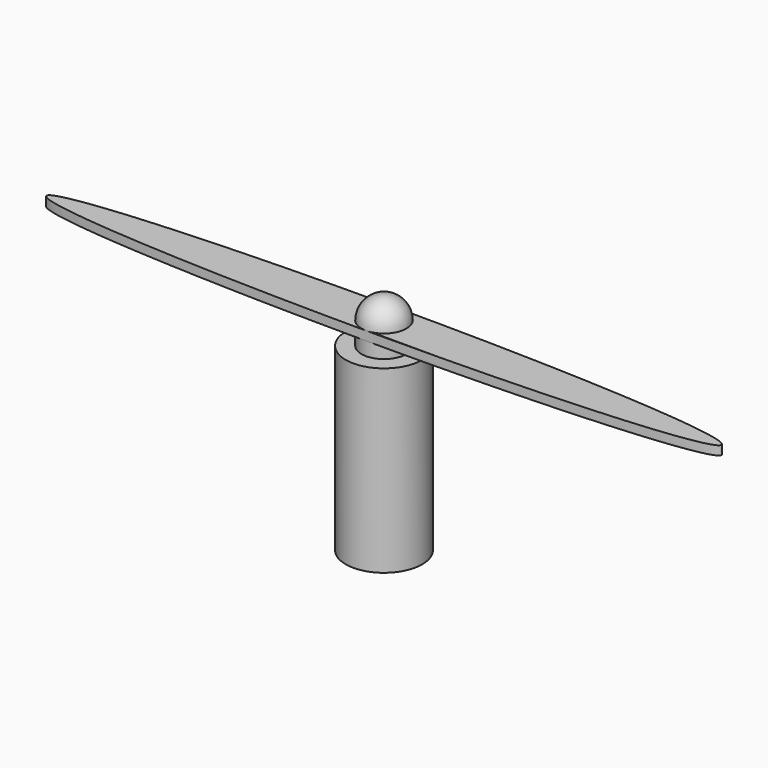
from build123d import *

# Parameters (mm, degrees)
F0_R     = 4.25
F1_DEPTH = 20
F2_R     = 2.5
F3_DEPTH = 5
F4_R     = 2.5
F7_DEPTH = 1


with BuildPart() as f1:
    # F0 (on Top) → F1 (new body)
    with BuildSketch(Plane.XY):
        Circle(F0_R)
    extrude(amount=F1_DEPTH)


with BuildPart() as f3:
    # F2 (on face) → F3 (new body)
    with BuildSketch(Plane.XY.offset(20)):
        Circle(F2_R)
    extrude(amount=F3_DEPTH)

    # F4
    f4_edges = [f3.edges().sort_by_distance(p)[0] for p in [
        (-2.5, 0, 25),
    ]]
    fillet(f4_edges, radius=F4_R)

    # F6 (on offset) → F7 (join)
    with BuildSketch(Plane.XY.offset(22.5)):
        with BuildLine():
            add(Edge.make_bspline(
                [(-37.5, 0), (-37.5, -4.330127), (18.75, -2.165064), (75, 0), (18.75, 2.165064), (-37.5, 4.330127), (-37.5, 0)],
                knots=[0, 0, 0, 2.094395, 2.094395, 4.18879, 4.18879, 6.283185, 6.283185, 6.283185], degree=2, weights=[1, 0.5, 1, 0.5, 1, 0.5, 1]))
        make_face()
    extrude(amount=-F7_DEPTH)


solid = Compound([f1.part, f3.part])
